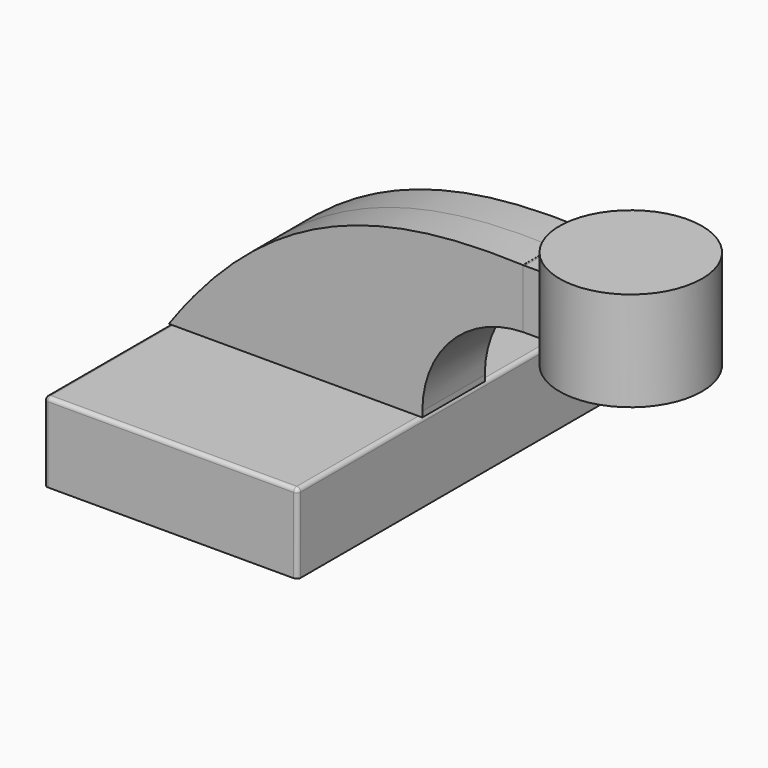
from build123d import *

# Parameters (mm, degrees)
F0_W     = 82.55
F0_H     = 25.838906
F1_DEPTH = 63.5
F2_DEPTH = 12.7
F3_DEPTH = 12.7
F5_R     = 1.27


with BuildPart() as f1:
    # F0 (on Front) → F1 (new body, symmetric)
    with BuildSketch(Plane.XZ):
        Rectangle(F0_W, F0_H)
    extrude(amount=F1_DEPTH, both=True)

    # F5
    f5_edges = [f1.edges().sort_by_distance(p)[0] for p in [
        (41.275, -63.5, 0),
        (-41.275, -63.5, 0),
        (41.275, 63.5, 0),
        (-41.275, 63.5, 0),
        (0, 63.5, 12.919453),
        (0, -63.5, 12.919453),
        (-41.275, 0, 12.919453),
        (41.275, 0, 12.919453),
    ]]
    fillet(f5_edges, radius=F5_R)


with BuildPart() as f2:
    # F0 (on Front) → F2 (new body, symmetric)
    with BuildSketch(Plane.XZ):
        with BuildLine():
            Line((74.030705, 67.240396), (74.030705, 48.057029))
            ThreePointArc((74.030705, 48.057029), (74.313179, 48.060622), (74.595673, 48.061819))
            Line((74.595673, 48.061819), (98.971203, 48.061819))
            Line((98.971203, 48.061819), (98.971203, 67.243436))
            Line((98.971203, 67.243436), (74.595673, 67.243436))
            ThreePointArc((74.595673, 67.243436), (74.313185, 67.242676), (74.030705, 67.240396))
        make_face()
    extrude(amount=F2_DEPTH, both=True)

    # F0 (on Front) → F4 (revolve)
    with BuildSketch(Plane.XZ):
        Polygon((122.187451, 73.852692), (98.971203, 73.852692), (98.971203, 67.243436), (98.971203, 48.061819), (98.971203, 41.52089), (122.187451, 41.52089), align=None)
    revolve(axis=Axis((98.971203, 0, 57.652628), (0, 0, -1)))


with BuildPart() as f3:
    # F0 (on Front) → F3 (new body, symmetric)
    with BuildSketch(Plane.XZ):
        with BuildLine():
            Line((-41.275, 12.919453), (41.275, 12.919453))
            Line((41.275, 12.919453), (41.275, 14.741147))
            ThreePointArc((41.275, 14.741147), (50.835492, 38.10182), (74.030705, 48.057029))
            Line((74.030705, 48.057029), (74.030705, 67.240396))
            Line((74.030705, 67.240396), (74.030705, 67.266531))
            add(Edge.make_bspline(
                [(74.030705, 67.266531), (26.017085, 69.175991), (-9.882587, 56.971381), (-41.275, 12.919453)],
                knots=[0.499492, 0.499492, 0.499492, 0.499492, 127.973075, 127.973075, 127.973075, 127.973075], degree=3))
        make_face()
    extrude(amount=F3_DEPTH, both=True)


solid = Compound([f1.part, f2.part, f3.part])
